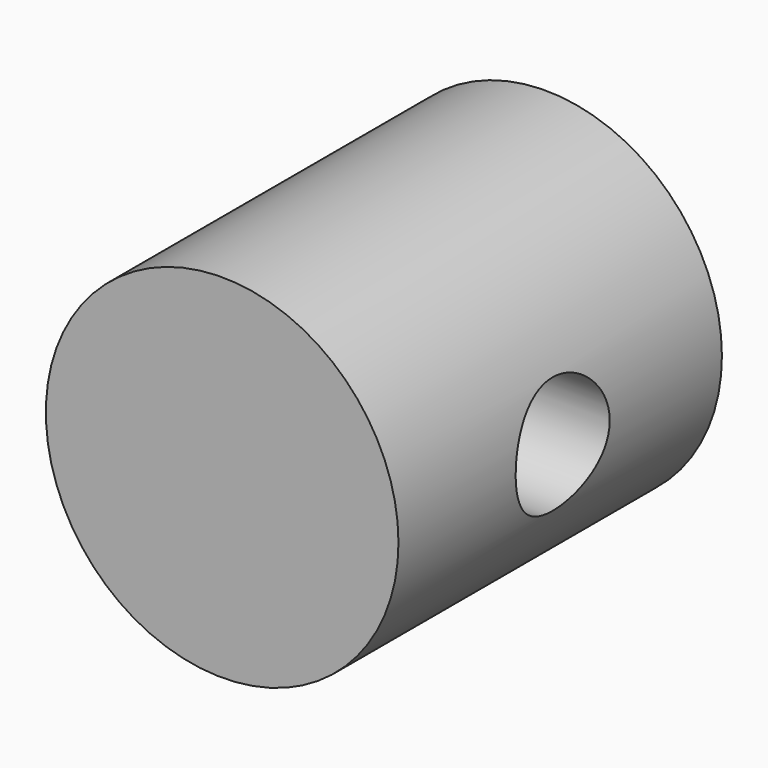
from build123d import *

# Parameters (mm, degrees)
F1_DEPTH = 87.376
F3_D     = 25.4
F3_DEPTH = 38.101


with BuildPart() as f1:
    # F0 (on Front) → F1 (new body)
    with BuildSketch(Plane.XZ):
        with BuildLine():
            ThreePointArc((-37.2249856592, -8.1185246613), (4.0827715088, -37.8806147892), (38.1, 0))
            ThreePointArc((38.1, 0), (-4.0827715088, 37.8806147892), (-37.2249856592, -8.1185246613))
        make_face()
    extrude(amount=F1_DEPTH)

    # F3 (through all, one way)
    with BuildSketch(Plane(origin=(0, 0, 0), x_dir=(0, 1, 0), z_dir=(-1, 0, 0))):
        with Locations((-43.0089458823, 0)):
            Circle(F3_D / 2)
    extrude(amount=-F3_DEPTH, mode=Mode.SUBTRACT)


solid = f1.part
